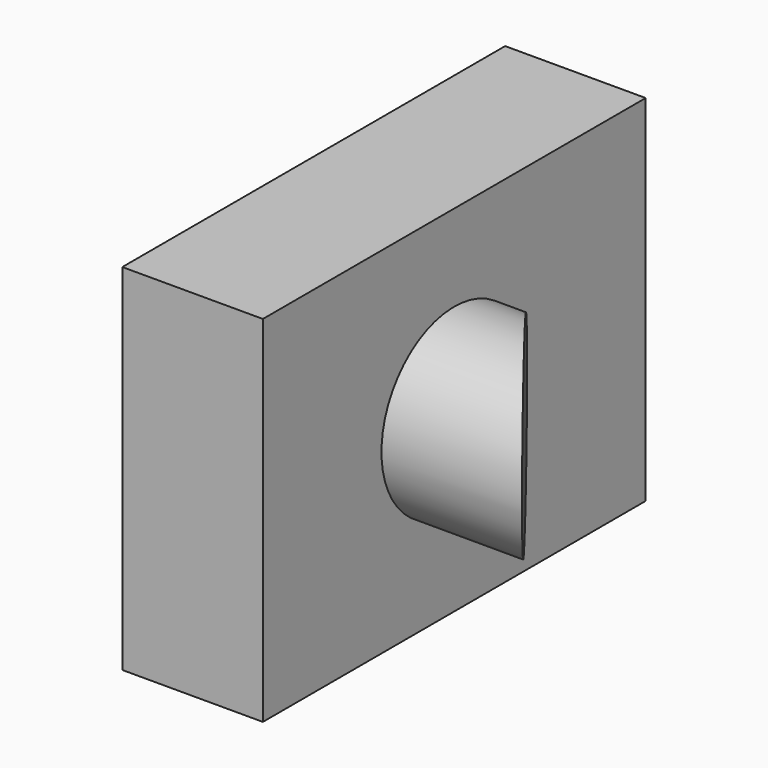
from build123d import *

# Parameters (mm, degrees)
F0_W     = 86.47044
F0_H     = 64.107388
F1_DEPTH = 25.4
F2_R     = 16.446559
F3_DEPTH = 25.4
F5_DEPTH = 64.108388


with BuildPart() as f1:
    # F0 (on Right) → F1 (new body)
    with BuildSketch(Plane.YZ):
        Rectangle(F0_W, F0_H)
    extrude(amount=F1_DEPTH)

    # F2 (on face) → F3 (join)
    with BuildSketch(Plane.YZ.offset(25.4)):
        Circle(F2_R)
    extrude(amount=F3_DEPTH)

    # F4 (on face) → F5 (cut, through all)
    with BuildSketch(Plane(origin=(0, 0, -32.053694), x_dir=(1, 0, 0), z_dir=(0, 0, -1))):
        Polygon((50.8, -16.446559), (50.8, 16.446559), (25.4, -16.446559), align=None)
    extrude(amount=-F5_DEPTH, mode=Mode.SUBTRACT)


solid = f1.part
